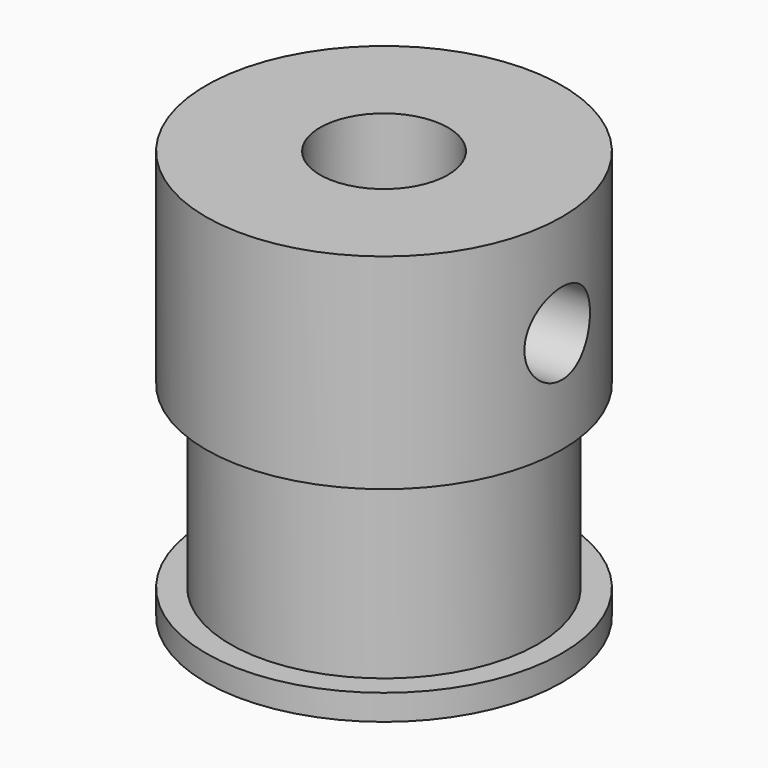
from build123d import *

# Parameters (mm, degrees)
F0_R     = 6.95
F0_R_2   = 6
F0_R_3   = 4.875
F0_R_4   = 2.5
F1_DEPTH = 1
F2_START = 1
F2_DEPTH = 7
F3_START = 8
F3_DEPTH = 1
F4_START = 9
F4_DEPTH = 7
F6_D     = 3.2
F6_DEPTH = 6.951


with BuildPart() as f1:
    # F0 (on Top) → F1 (new body)
    with BuildSketch(Plane.XY):
        Circle(F0_R)
        Circle(F0_R_2, mode=Mode.SUBTRACT)
        Circle(F0_R_2)
        Circle(F0_R_3, mode=Mode.SUBTRACT)
        Circle(F0_R_3)
        Circle(F0_R_4, mode=Mode.SUBTRACT)
    extrude(amount=F1_DEPTH)

    # F0 (on Top) → F2 (join)
    with BuildSketch(Plane.XY.offset(F2_START)):
        Circle(F0_R_2)
        Circle(F0_R_3, mode=Mode.SUBTRACT)
        Circle(F0_R_3)
        Circle(F0_R_4, mode=Mode.SUBTRACT)
    extrude(amount=F2_DEPTH)

    # F0 (on Top) → F3 (join)
    with BuildSketch(Plane.XY.offset(F3_START)):
        Circle(F0_R)
        Circle(F0_R_2, mode=Mode.SUBTRACT)
        Circle(F0_R_2)
        Circle(F0_R_3, mode=Mode.SUBTRACT)
        Circle(F0_R_3)
        Circle(F0_R_4, mode=Mode.SUBTRACT)
    extrude(amount=F3_DEPTH)

    # F0 (on Top) → F4 (join)
    with BuildSketch(Plane.XY.offset(F4_START)):
        Circle(F0_R)
        Circle(F0_R_2, mode=Mode.SUBTRACT)
        Circle(F0_R_2)
        Circle(F0_R_3, mode=Mode.SUBTRACT)
        Circle(F0_R_3)
        Circle(F0_R_4, mode=Mode.SUBTRACT)
    extrude(amount=F4_DEPTH)

    # F6 (through all, one way)
    with BuildSketch(Plane(origin=(0, 0, 0), x_dir=(0, 1, 0), z_dir=(-1, 0, 0))):
        with Locations((0, -12)):
            Circle(F6_D / 2)
    extrude(amount=-F6_DEPTH, mode=Mode.SUBTRACT)


solid = f1.part
